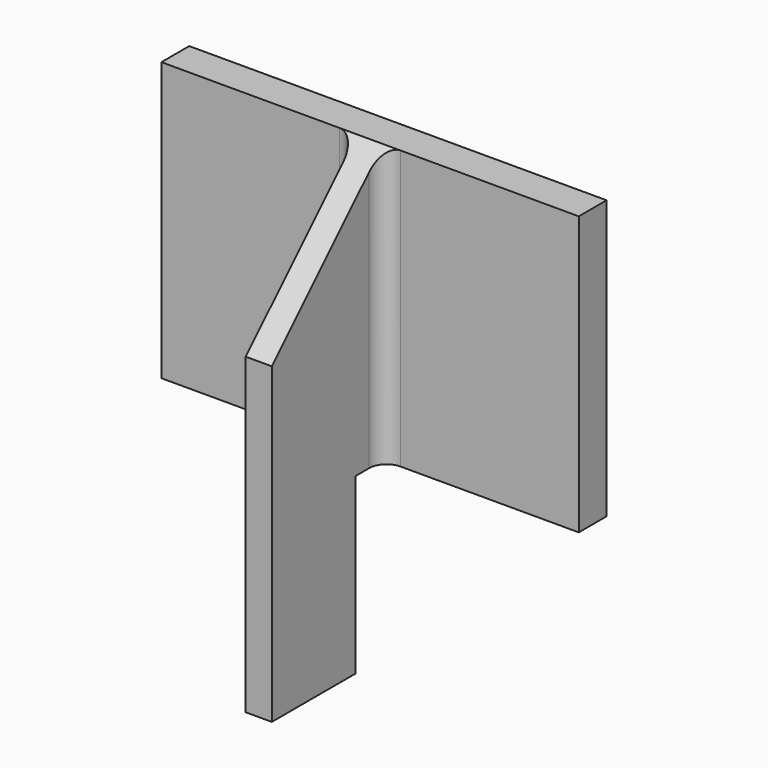
from build123d import *

# Parameters (mm, degrees)
F0_W     = 24
F0_H     = 16
F1_DEPTH = 2
F2_W     = 1.5
F2_H     = 16
F2_H_2   = 10
F3_DEPTH = 8
F4_DEPTH = 2
F5_SIZE  = 8
F6_R     = 1


with BuildPart() as f1:
    # F0 (on Front) → F1 (new body)
    with BuildSketch(Plane.XZ):
        Rectangle(F0_W, F0_H)
    extrude(amount=F1_DEPTH)

    # F2 (on face) → F3 (join)
    with BuildSketch(Plane.XZ.offset(2)):
        Rectangle(F2_W, F2_H)
        with Locations((0, -13)):
            Rectangle(F2_W, F2_H_2)
    extrude(amount=F3_DEPTH)

    # F4 (cut): a face of the model
    f4_faces = [f1.faces().sort_by_distance(p)[0] for p in [
        (0, -2, -13),
    ]]
    extrude(f4_faces, amount=-F4_DEPTH, mode=Mode.SUBTRACT)

    # F5
    f5_edges = [f1.edges().sort_by_distance(p)[0] for p in [
        (0, -10, 8),
    ]]
    chamfer(f5_edges, length=F5_SIZE)

    # F6
    f6_edges = [f1.edges().sort_by_distance(p)[0] for p in [
        (-0.75, -2, 0),
        (0.75, -2, 0),
    ]]
    fillet(f6_edges, radius=F6_R)


solid = f1.part
